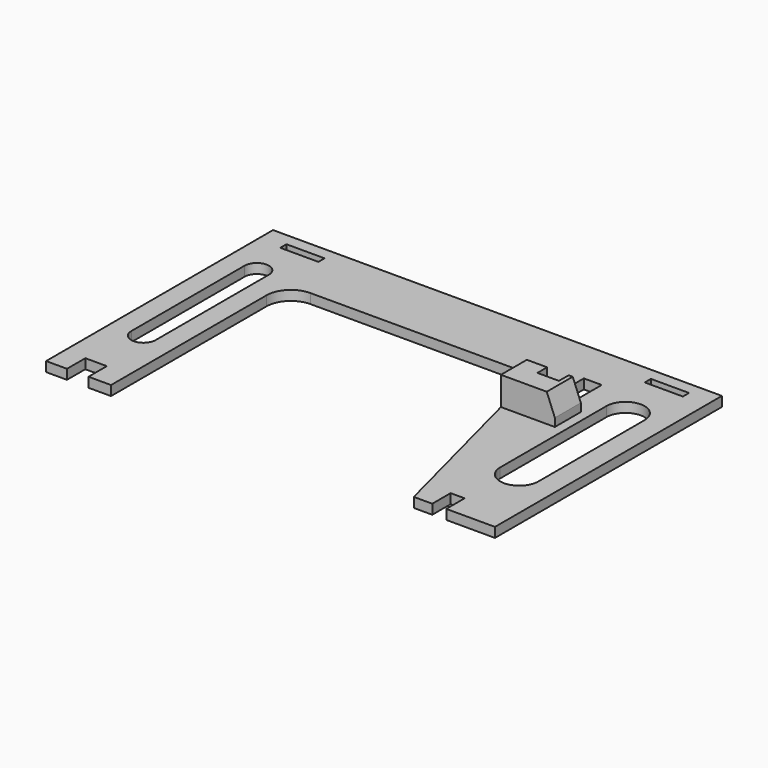
from build123d import *

# Parameters (mm, degrees)
EXTRUDE001_DEPTH = 7
SKETCH011_W      = 9.4
SKETCH011_H      = 1.9
SKETCH011_W_2    = 4.4
SKETCH011_H_2    = 14.3
PAD008_DEPTH     = 2.4
CHAMFER004_SIZE2 = 2
CHAMFER004_SIZE  = 5
CHAMFER005_SIZE2 = 5
CHAMFER005_SIZE  = 1


with BuildPart() as extrude001:
    # Sketch012 (on CopyDatumPlane) → Extrude001 (new body)
    with BuildSketch(Plane.XY.offset(2.4)):
        Polygon((25, 47.7), (30, 47.7), (30, 44.7), (34.3, 44.7), (34.3, 47.7), (38.3, 47.7), (38.3, 39.7), (25, 39.7), align=None)
    extrude(amount=EXTRUDE001_DEPTH)


with BuildPart() as body005:
    # Sketch011 → Pad008 (new body)
    with BuildSketch(Plane.XY):
        with BuildLine():
            Line((-55.3, 0), (-55.3, 69.9))
            Line((-55.3, 69.9), (55.3, 69.9))
            Line((55.3, 69.9), (55.3, 0))
            Line((55.3, 0), (43.3, 0))
            Line((43.3, 0), (43.3, 5.65))
            Line((43.3, 5.65), (39.85, 5.65))
            Line((39.85, 5.65), (39.85, 0))
            Line((39.85, 0), (35.3, 0))
            Line((35.3, 0), (25, 39.7))
            Line((25, 39.7), (25, 47.9))
            ThreePointArc((25, 47.9), (23.242641, 52.142641), (19, 53.9))
            Line((19, 53.9), (-33.3, 53.9))
            ThreePointArc((-33.3, 53.9), (-37.542641, 52.142641), (-39.3, 47.9))
            Line((-39.3, 47.9), (-39.3, 0))
            Line((-39.3, 0), (-44.85, 0))
            Line((-44.85, 0), (-44.85, 5.65))
            Line((-44.85, 5.65), (-50.15, 5.65))
            Line((-50.15, 5.65), (-50.15, 0))
            Line((-50.15, 0), (-55.3, 0))
        make_face()
        with Locations((-44.9, 65.95)):
            Rectangle(SKETCH011_W, SKETCH011_H, mode=Mode.SUBTRACT)
        with Locations((44.9, 65.95)):
            Rectangle(SKETCH011_W, SKETCH011_H, mode=Mode.SUBTRACT)
        with BuildLine():
            Line((-50.3, 54.9), (-50.3, 20))
            ThreePointArc((-50.3, 20), (-47.3, 17), (-44.3, 20))
            Line((-44.3, 20), (-44.3, 54.9))
            ThreePointArc((-44.3, 54.9), (-47.3, 57.9), (-50.3, 54.9))
        make_face(mode=Mode.SUBTRACT)
        with BuildLine():
            Line((40.6, 52.7), (40.6, 20))
            ThreePointArc((40.6, 20), (45.3, 15.3), (50, 20))
            Line((50, 20), (50, 52.7))
            ThreePointArc((50, 52.7), (45.3, 57.4), (40.6, 52.7))
        make_face(mode=Mode.SUBTRACT)
        with Locations((32.2, 51.85)):
            Rectangle(SKETCH011_W_2, SKETCH011_H_2, mode=Mode.SUBTRACT)
    extrude(amount=PAD008_DEPTH)

    # Fusion: union Extrude001
    add(extrude001.part)

    # Chamfer004
    chamfer004_edges = [body005.edges().sort_by_distance(p)[0] for p in [
        (38.3, 43.7, 9.4),
    ]]
    chamfer004_side = body005.faces().sort_by_distance((38.3, 43.7, 5.9))[0]
    chamfer(chamfer004_edges, length=CHAMFER004_SIZE, length2=CHAMFER004_SIZE2, reference=chamfer004_side)

    # Chamfer005
    chamfer005_edges = [body005.edges().sort_by_distance(p)[0] for p in [
        (34.3, 46.2, 9.4),
    ]]
    chamfer005_side = body005.faces().sort_by_distance((30.400323, 43.283871, 9.4))[0]
    chamfer(chamfer005_edges, length=CHAMFER005_SIZE, length2=CHAMFER005_SIZE2, reference=chamfer005_side)


with BuildPart() as body005_1:
    # Body005 placement: moved
    add(body005.part.moved(Location((80, 0, -20))))


solid = body005_1.part
